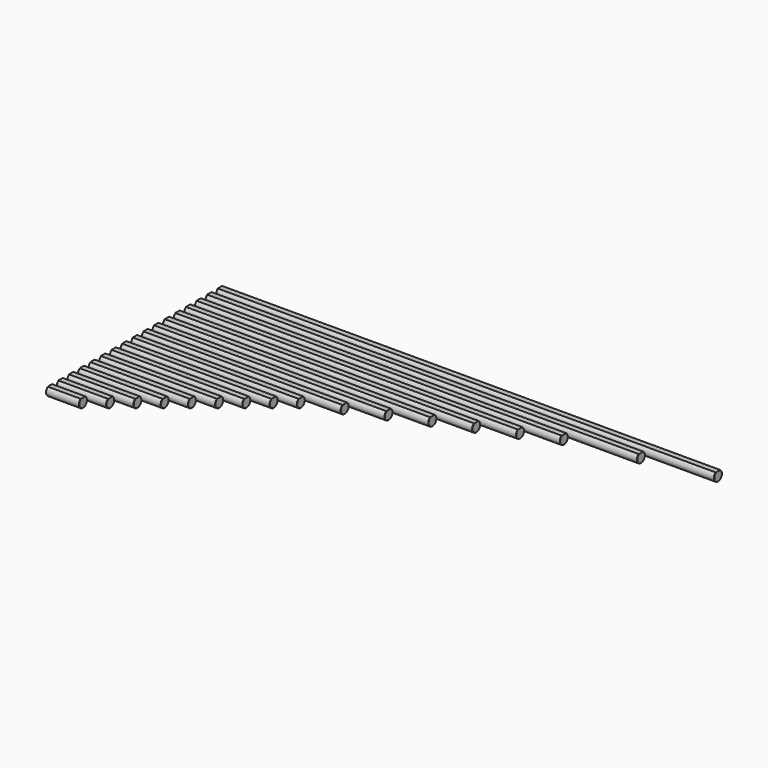
from build123d import *

# Parameters (mm, degrees)
F1_DEPTH    = 20
F2_DEPTH    = 30
F3_DEPTH    = 40
F4_DEPTH    = 50
F5_DEPTH    = 60
F6_DEPTH    = 70
F7_DEPTH    = 80
F8_DEPTH    = 90
F9_DEPTH    = 100
F10_DEPTH   = 120
F11_DEPTH   = 140
F12_DEPTH   = 160
F13_DEPTH   = 180
F14_DEPTH   = 200
F15_DEPTH   = 220
F16_DEPTH   = 260
F17_DEPTH   = 300
F18_SIZE    = 0.125
F18_2_SIZE  = 0.125
F18_3_SIZE  = 0.125
F18_4_SIZE  = 0.125
F18_5_SIZE  = 0.125
F18_6_SIZE  = 0.125
F18_7_SIZE  = 0.125
F18_8_SIZE  = 0.125
F18_9_SIZE  = 0.125
F18_10_SIZE = 0.125
F18_11_SIZE = 0.125
F18_12_SIZE = 0.125
F18_13_SIZE = 0.125
F18_14_SIZE = 0.125
F18_15_SIZE = 0.125
F18_16_SIZE = 0.125
F18_17_SIZE = 0.125


with BuildPart() as f1:
    # F0 (on Right) → F1 (new body)
    with BuildSketch(Plane.YZ):
        with BuildLine():
            ThreePointArc((-1.658312, 2.5), (-1.418637, -2.643382), (3, 0))
            ThreePointArc((3, 0), (2.643382, 1.418637), (1.658312, 2.5))
            Line((1.658312, 2.5), (-1.658312, 2.5))
        make_face()
    extrude(amount=F1_DEPTH)

    # F18#17
    f18_17_edges = [f1.edges().sort_by_distance(p)[0] for p in [
        (0, -1.418637, -2.643382),
        (20, -1.418637, -2.643382),
    ]]
    chamfer(f18_17_edges, length=F18_17_SIZE)


with BuildPart() as f2:
    # F0 (on Right) → F2 (new body)
    with BuildSketch(Plane.YZ):
        with BuildLine():
            ThreePointArc((6.341688, 2.5), (6.581363, -2.643382), (11, 0))
            ThreePointArc((11, 0), (10.643382, 1.418637), (9.658312, 2.5))
            Line((9.658312, 2.5), (6.341688, 2.5))
        make_face()
    extrude(amount=F2_DEPTH)

    # F18#16
    f18_16_edges = [f2.edges().sort_by_distance(p)[0] for p in [
        (0, 6.581363, -2.643382),
        (30, 6.581363, -2.643382),
    ]]
    chamfer(f18_16_edges, length=F18_16_SIZE)


with BuildPart() as f3:
    # F0 (on Right) → F3 (new body)
    with BuildSketch(Plane.YZ):
        with BuildLine():
            ThreePointArc((14.341688, 2.5), (14.581363, -2.643382), (19, 0))
            ThreePointArc((19, 0), (18.643382, 1.418637), (17.658312, 2.5))
            Line((17.658312, 2.5), (14.341688, 2.5))
        make_face()
    extrude(amount=F3_DEPTH)

    # F18#15
    f18_15_edges = [f3.edges().sort_by_distance(p)[0] for p in [
        (0, 14.581363, -2.643382),
        (40, 14.581363, -2.643382),
    ]]
    chamfer(f18_15_edges, length=F18_15_SIZE)


with BuildPart() as f4:
    # F0 (on Right) → F4 (new body)
    with BuildSketch(Plane.YZ):
        with BuildLine():
            ThreePointArc((22.341688, 2.5), (22.581363, -2.643382), (27, 0))
            ThreePointArc((27, 0), (26.643382, 1.418637), (25.658312, 2.5))
            Line((25.658312, 2.5), (22.341688, 2.5))
        make_face()
    extrude(amount=F4_DEPTH)

    # F18#14
    f18_14_edges = [f4.edges().sort_by_distance(p)[0] for p in [
        (0, 22.581363, -2.643382),
        (50, 22.581363, -2.643382),
    ]]
    chamfer(f18_14_edges, length=F18_14_SIZE)


with BuildPart() as f5:
    # F0 (on Right) → F5 (new body)
    with BuildSketch(Plane.YZ):
        with BuildLine():
            ThreePointArc((30.341688, 2.5), (30.581363, -2.643382), (35, 0))
            ThreePointArc((35, 0), (34.643382, 1.418637), (33.658312, 2.5))
            Line((33.658312, 2.5), (30.341688, 2.5))
        make_face()
    extrude(amount=F5_DEPTH)

    # F18#13
    f18_13_edges = [f5.edges().sort_by_distance(p)[0] for p in [
        (0, 30.581363, -2.643382),
        (60, 30.581363, -2.643382),
    ]]
    chamfer(f18_13_edges, length=F18_13_SIZE)


with BuildPart() as f6:
    # F0 (on Right) → F6 (new body)
    with BuildSketch(Plane.YZ):
        with BuildLine():
            ThreePointArc((38.341688, 2.5), (38.581363, -2.643382), (43, 0))
            ThreePointArc((43, 0), (42.643382, 1.418637), (41.658312, 2.5))
            Line((41.658312, 2.5), (38.341688, 2.5))
        make_face()
    extrude(amount=F6_DEPTH)

    # F18#12
    f18_12_edges = [f6.edges().sort_by_distance(p)[0] for p in [
        (0, 38.581363, -2.643382),
        (70, 38.581363, -2.643382),
    ]]
    chamfer(f18_12_edges, length=F18_12_SIZE)


with BuildPart() as f7:
    # F0 (on Right) → F7 (new body)
    with BuildSketch(Plane.YZ):
        with BuildLine():
            ThreePointArc((46.341688, 2.5), (46.581363, -2.643382), (51, 0))
            ThreePointArc((51, 0), (50.643382, 1.418637), (49.658312, 2.5))
            Line((49.658312, 2.5), (46.341688, 2.5))
        make_face()
    extrude(amount=F7_DEPTH)

    # F18#11
    f18_11_edges = [f7.edges().sort_by_distance(p)[0] for p in [
        (0, 46.581363, -2.643382),
        (80, 46.581363, -2.643382),
    ]]
    chamfer(f18_11_edges, length=F18_11_SIZE)


with BuildPart() as f8:
    # F0 (on Right) → F8 (new body)
    with BuildSketch(Plane.YZ):
        with BuildLine():
            ThreePointArc((54.341688, 2.5), (54.581363, -2.643382), (59, 0))
            ThreePointArc((59, 0), (58.643382, 1.418637), (57.658312, 2.5))
            Line((57.658312, 2.5), (54.341688, 2.5))
        make_face()
    extrude(amount=F8_DEPTH)

    # F18#10
    f18_10_edges = [f8.edges().sort_by_distance(p)[0] for p in [
        (0, 54.581363, -2.643382),
        (90, 54.581363, -2.643382),
    ]]
    chamfer(f18_10_edges, length=F18_10_SIZE)


with BuildPart() as f9:
    # F0 (on Right) → F9 (new body)
    with BuildSketch(Plane.YZ):
        with BuildLine():
            ThreePointArc((62.341688, 2.5), (62.581363, -2.643382), (67, 0))
            ThreePointArc((67, 0), (66.643382, 1.418637), (65.658312, 2.5))
            Line((65.658312, 2.5), (62.341688, 2.5))
        make_face()
    extrude(amount=F9_DEPTH)

    # F18#9
    f18_9_edges = [f9.edges().sort_by_distance(p)[0] for p in [
        (0, 62.581363, -2.643382),
        (100, 62.581363, -2.643382),
    ]]
    chamfer(f18_9_edges, length=F18_9_SIZE)


with BuildPart() as f10:
    # F0 (on Right) → F10 (new body)
    with BuildSketch(Plane.YZ):
        with BuildLine():
            ThreePointArc((70.341688, 2.5), (70.581363, -2.643382), (75, 0))
            ThreePointArc((75, 0), (74.643382, 1.418637), (73.658312, 2.5))
            Line((73.658312, 2.5), (70.341688, 2.5))
        make_face()
    extrude(amount=F10_DEPTH)

    # F18#8
    f18_8_edges = [f10.edges().sort_by_distance(p)[0] for p in [
        (0, 70.581363, -2.643382),
        (120, 70.581363, -2.643382),
    ]]
    chamfer(f18_8_edges, length=F18_8_SIZE)


with BuildPart() as f11:
    # F0 (on Right) → F11 (new body)
    with BuildSketch(Plane.YZ):
        with BuildLine():
            ThreePointArc((78.341688, 2.5), (78.581363, -2.643382), (83, 0))
            ThreePointArc((83, 0), (82.643382, 1.418637), (81.658312, 2.5))
            Line((81.658312, 2.5), (78.341688, 2.5))
        make_face()
    extrude(amount=F11_DEPTH)

    # F18#7
    f18_7_edges = [f11.edges().sort_by_distance(p)[0] for p in [
        (0, 78.581363, -2.643382),
        (140, 78.581363, -2.643382),
    ]]
    chamfer(f18_7_edges, length=F18_7_SIZE)


with BuildPart() as f12:
    # F0 (on Right) → F12 (new body)
    with BuildSketch(Plane.YZ):
        with BuildLine():
            ThreePointArc((86.341688, 2.5), (86.581363, -2.643382), (91, 0))
            ThreePointArc((91, 0), (90.643382, 1.418637), (89.658312, 2.5))
            Line((89.658312, 2.5), (86.341688, 2.5))
        make_face()
    extrude(amount=F12_DEPTH)

    # F18#6
    f18_6_edges = [f12.edges().sort_by_distance(p)[0] for p in [
        (0, 86.581363, -2.643382),
        (160, 86.581363, -2.643382),
    ]]
    chamfer(f18_6_edges, length=F18_6_SIZE)


with BuildPart() as f13:
    # F0 (on Right) → F13 (new body)
    with BuildSketch(Plane.YZ):
        with BuildLine():
            ThreePointArc((94.341688, 2.5), (94.581363, -2.643382), (99, 0))
            ThreePointArc((99, 0), (98.643382, 1.418637), (97.658312, 2.5))
            Line((97.658312, 2.5), (94.341688, 2.5))
        make_face()
    extrude(amount=F13_DEPTH)

    # F18#5
    f18_5_edges = [f13.edges().sort_by_distance(p)[0] for p in [
        (0, 94.581363, -2.643382),
        (180, 94.581363, -2.643382),
    ]]
    chamfer(f18_5_edges, length=F18_5_SIZE)


with BuildPart() as f14:
    # F0 (on Right) → F14 (new body)
    with BuildSketch(Plane.YZ):
        with BuildLine():
            ThreePointArc((102.341688, 2.5), (102.581363, -2.643382), (107, 0))
            ThreePointArc((107, 0), (106.643382, 1.418637), (105.658312, 2.5))
            Line((105.658312, 2.5), (102.341688, 2.5))
        make_face()
    extrude(amount=F14_DEPTH)

    # F18#4
    f18_4_edges = [f14.edges().sort_by_distance(p)[0] for p in [
        (0, 102.581363, -2.643382),
        (200, 102.581363, -2.643382),
    ]]
    chamfer(f18_4_edges, length=F18_4_SIZE)


with BuildPart() as f15:
    # F0 (on Right) → F15 (new body)
    with BuildSketch(Plane.YZ):
        with BuildLine():
            ThreePointArc((110.341688, 2.5), (110.581363, -2.643382), (115, 0))
            ThreePointArc((115, 0), (114.643382, 1.418637), (113.658312, 2.5))
            Line((113.658312, 2.5), (110.341688, 2.5))
        make_face()
    extrude(amount=F15_DEPTH)

    # F18#3
    f18_3_edges = [f15.edges().sort_by_distance(p)[0] for p in [
        (0, 110.581363, -2.643382),
        (220, 110.581363, -2.643382),
    ]]
    chamfer(f18_3_edges, length=F18_3_SIZE)


with BuildPart() as f16:
    # F0 (on Right) → F16 (new body)
    with BuildSketch(Plane.YZ):
        with BuildLine():
            ThreePointArc((118.341688, 2.5), (118.581363, -2.643382), (123, 0))
            ThreePointArc((123, 0), (122.643382, 1.418637), (121.658312, 2.5))
            Line((121.658312, 2.5), (118.341688, 2.5))
        make_face()
    extrude(amount=F16_DEPTH)

    # F18#2
    f18_2_edges = [f16.edges().sort_by_distance(p)[0] for p in [
        (0, 118.581363, -2.643382),
        (260, 118.581363, -2.643382),
    ]]
    chamfer(f18_2_edges, length=F18_2_SIZE)


with BuildPart() as f17:
    # F0 (on Right) → F17 (new body)
    with BuildSketch(Plane.YZ):
        with BuildLine():
            ThreePointArc((126.341688, 2.5), (126.581363, -2.643382), (131, 0))
            ThreePointArc((131, 0), (130.643382, 1.418637), (129.658312, 2.5))
            Line((129.658312, 2.5), (126.341688, 2.5))
        make_face()
    extrude(amount=F17_DEPTH)

    # F18
    f18_edges = [f17.edges().sort_by_distance(p)[0] for p in [
        (0, 126.581363, -2.643382),
        (300, 126.581363, -2.643382),
    ]]
    chamfer(f18_edges, length=F18_SIZE)


solid = Compound([f1.part, f2.part, f3.part, f4.part, f5.part, f6.part, f7.part, f8.part, f9.part, f10.part, f11.part, f12.part, f13.part, f14.part, f15.part, f16.part, f17.part])
